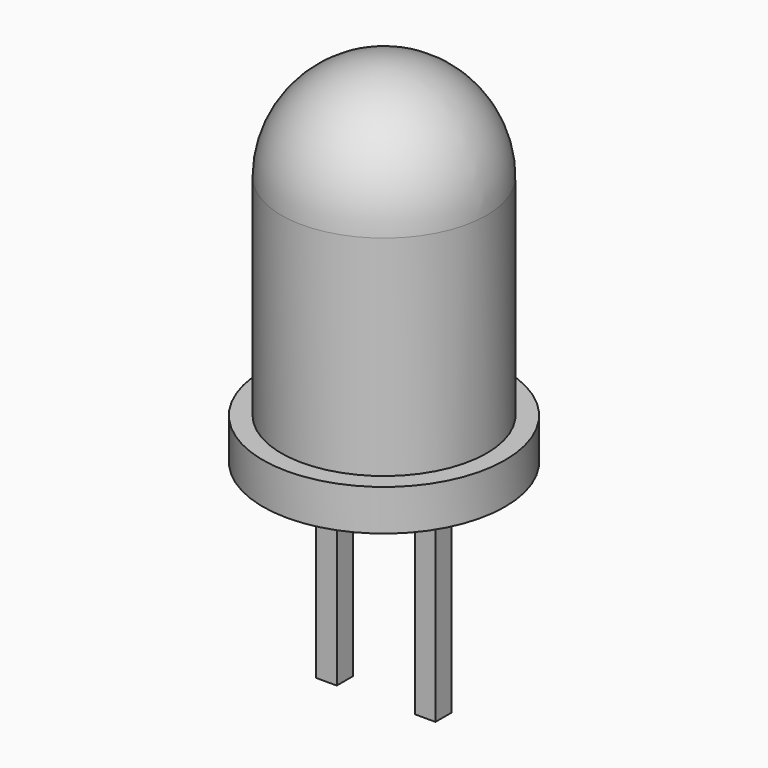
from build123d import *

# Parameters (mm, degrees)
F0_R     = 2.5
F1_DEPTH = 8.6
F0_R_2   = 2.95
F2_DEPTH = 1
F3_R     = 2.5
F4_W     = 0.5
F4_H     = 0.491922
F4_H_2   = 0.5
F5_DEPTH = 5


with BuildPart() as f1:
    # F0 (on Top) → F1 (new body)
    with BuildSketch(Plane.XY):
        Circle(F0_R)
    extrude(amount=F1_DEPTH)

    # F0 (on Top) → F2 (join)
    with BuildSketch(Plane.XY):
        Circle(F0_R_2)
        Circle(F0_R, mode=Mode.SUBTRACT)
    extrude(amount=F2_DEPTH)

    # F3
    f3_edges = [f1.edges().sort_by_distance(p)[0] for p in [
        (-2.5, 0, 8.6),
    ]]
    fillet(f3_edges, radius=F3_R)


with BuildPart() as f5:
    # F4 (on face) → F5 (new body)
    with BuildSketch(Plane.XY):
        with Locations((1.2, 0)):
            Rectangle(F4_W, F4_H)
        with Locations((-1.2, 0)):
            Rectangle(F4_W, F4_H_2)
    extrude(amount=-F5_DEPTH)


solid = Compound([f1.part, f5.part])
